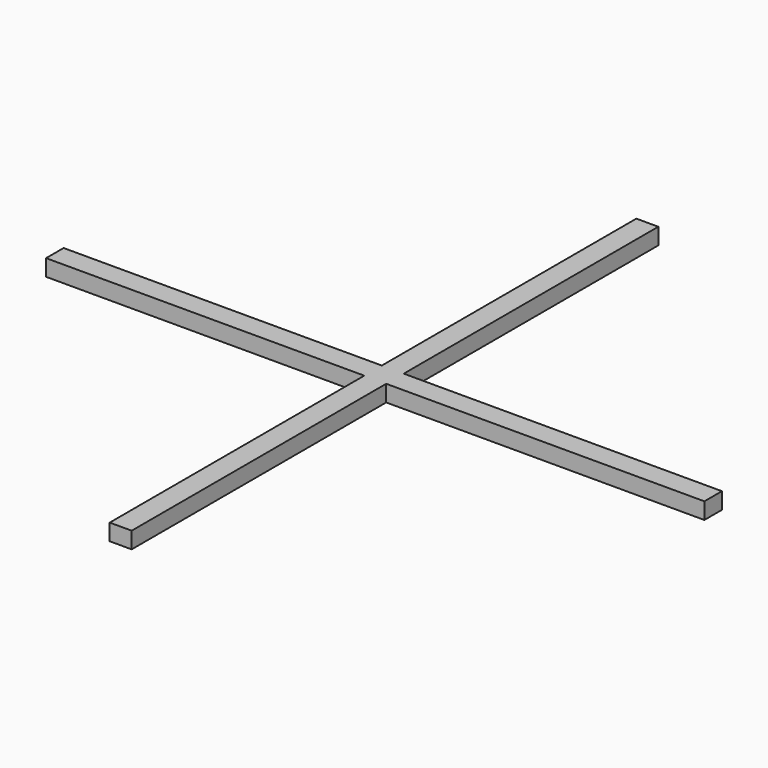
from build123d import *

# Parameters (mm, degrees)
F0_W     = 58
F0_H     = 4
F0_W_2   = 4
F0_H_2   = 58
F1_DEPTH = 3


with BuildPart() as f1:
    # F0 (on Top) → F1 (new body)
    with BuildSketch(Plane.XY):
        with Locations((-31, 0)):
            Rectangle(F0_W, F0_H)
        with Locations((0, -31)):
            Rectangle(F0_W_2, F0_H_2)
        Rectangle(F0_W_2, F0_H)
        with Locations((0, 31)):
            Rectangle(F0_W_2, F0_H_2)
        with Locations((31, 0)):
            Rectangle(F0_W, F0_H)
    extrude(amount=F1_DEPTH)


solid = f1.part
